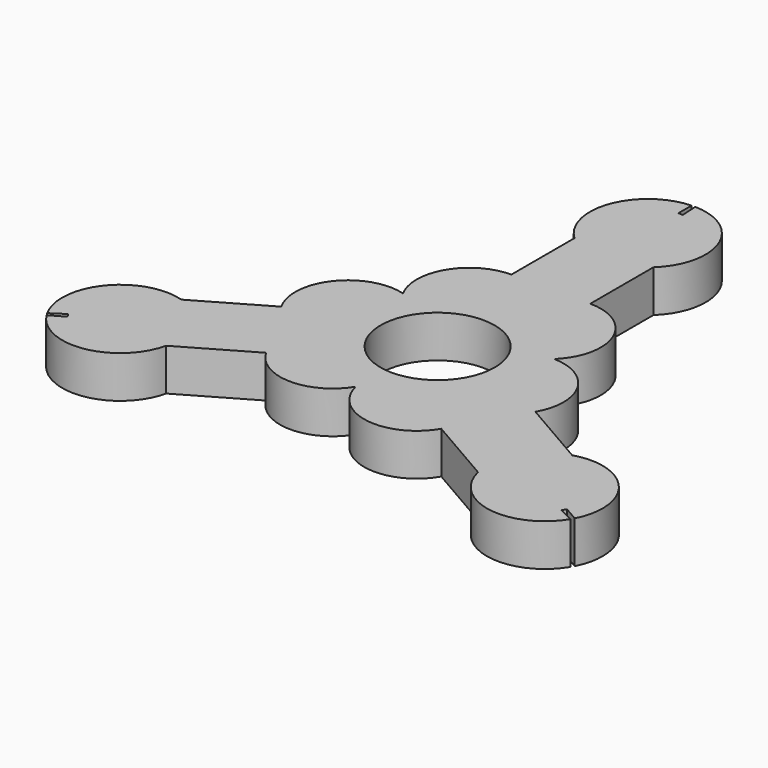
from build123d import *

# Parameters (mm, degrees)
F0_R     = 10.85
F1_DEPTH = 8


with BuildPart() as f1:
    # F0 (on Top) → F1 (new body)
    with BuildSketch(Plane.XY):
        with BuildLine():
            Line((9.131195, 24.862669), (9.131195, 39.862669))
            ThreePointArc((9.131195, 39.862669), (11.903994, 51.842548), (1.839538, 58.907434))
            Line((1.839538, 58.907434), (2.025343, 55.758941))
            Line((2.025343, 55.758941), (1.158253, 55.745472))
            Line((1.158253, 55.745472), (1.158253, 58.899236))
            ThreePointArc((1.158253, 58.899236), (-8.688188, 51.71865), (-5.868805, 39.862669))
            Line((-5.868805, 39.862669), (-5.868805, 24.862669))
            ThreePointArc((-5.868805, 24.862669), (-14.4659, 19.970502), (-14.65131, 10.080661))
            ThreePointArc((-14.65131, 10.080661), (-25.307738, 6.64516), (-26.0973, -4.523488))
            Line((-26.0973, -4.523488), (-39.087681, -12.023488))
            ThreePointArc((-39.087681, -12.023488), (-50.84896, -15.612113), (-51.935103, -27.860631))
            Line((-51.935103, -27.860631), (-49.301331, -26.125472))
            Line((-49.301331, -26.125472), (-48.856122, -26.86966))
            Line((-48.856122, -26.86966), (-51.587361, -28.446542))
            ThreePointArc((-51.587361, -28.446542), (-40.445571, -33.383517), (-31.587681, -25.013869))
            Line((-31.587681, -25.013869), (-18.5973, -17.513869))
            ThreePointArc((-18.5973, -17.513869), (-10.062012, -22.513088), (-1.404453, -17.728738))
            ThreePointArc((-1.404453, -17.728738), (6.898991, -25.239724), (16.966106, -20.339181))
            Line((16.966106, -20.339181), (29.956487, -27.839181))
            ThreePointArc((29.956487, -27.839181), (38.944966, -36.230435), (50.095566, -31.046804))
            Line((50.095566, -31.046804), (47.275988, -29.633469))
            Line((47.275988, -29.633469), (47.697869, -28.875812))
            Line((47.697869, -28.875812), (50.429108, -30.452694))
            ThreePointArc((50.429108, -30.452694), (49.133759, -18.335133), (37.456487, -14.8488))
            Line((37.456487, -14.8488), (24.466106, -7.3488))
            ThreePointArc((24.466106, -7.3488), (24.527912, 2.542586), (16.055764, 7.648077))
            ThreePointArc((16.055764, 7.648077), (18.408746, 18.594564), (9.131195, 24.862669))
        make_face()
        Circle(F0_R, mode=Mode.SUBTRACT)
    extrude(amount=F1_DEPTH)


solid = f1.part
